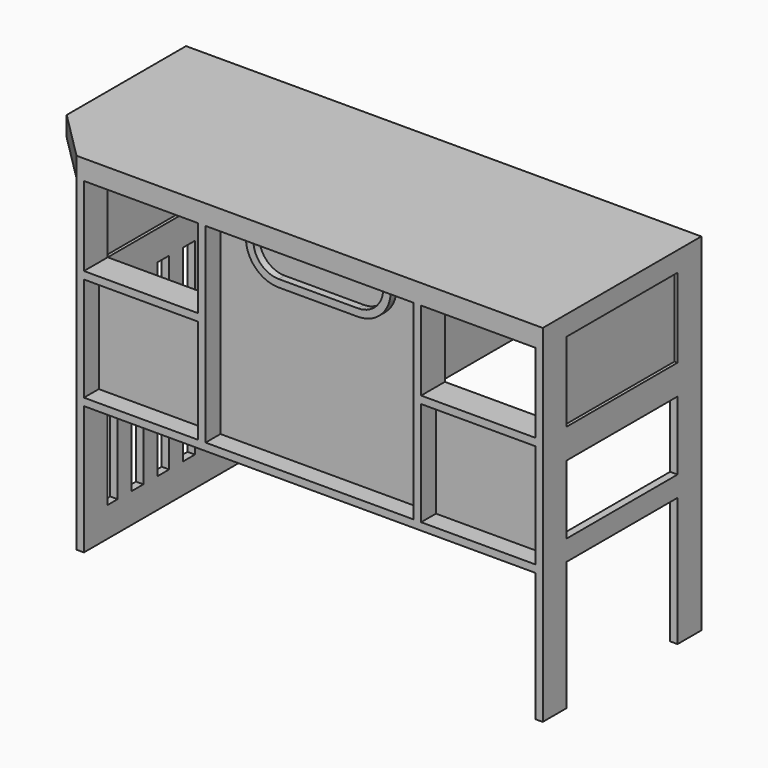
from build123d import *

# Parameters (mm, degrees)
F1_DEPTH  = 50.8
F2_W      = 19.05
F2_H      = 76.2
F3_DEPTH  = 838.2
F4_W      = 355.6
F4_H      = 76.2
F5_DEPTH  = 19.05
F6_W      = 44.45
F6_H      = 482.6
F7_DEPTH  = 19.05
F9_W      = 76.2
F9_H      = 19.05
F10_DEPTH = 1156.976414305
F8_W      = 292.7382071525
F8_H      = 19.05
F11_DEPTH = 76.2
F12_W     = 19.05
F12_H     = 203.2
F13_DEPTH = 76.2
F14_W     = 3.175
F14_H     = 203.2
F15_DEPTH = 431.8
F16_W     = 355.6
F16_H     = 76.2
F16_H_2   = 52.435785675
F17_DEPTH = 19.05
F20_W     = 19.05
F20_H     = 19.05
F22_W     = 533.4
F22_H     = 19.05
F22_W_2   = 292.7382071525
F23_DEPTH = 76.2
F25_DEPTH = 3.175


with BuildPart() as f1:
    # F0 (on Top) → F1 (new body)
    with BuildSketch(Plane.XY):
        Polygon((617.4126458168, 48.7991196131), (-703.3873541832, 48.7991196131), (-703.3873541832, -333.4772946919), (-577.6637684882, -459.2008803869), (617.4126458168, -459.2008803869), align=None)
    extrude(amount=F1_DEPTH)

    # F2 (on face) → F3 (join)
    with BuildSketch(Plane(origin=(0, 0, 0), x_dir=(1, 0, 0), z_dir=(0, 0, -1))):
        with Locations((607.8876458168, 421.1008803869)):
            Rectangle(F2_W, F2_H)
        with Locations((607.8876458168, -10.6991196131)):
            Rectangle(F2_W, F2_H)
        with Locations((-568.1387684882, 421.1008803869)):
            Rectangle(F2_W, F2_H)
        with Locations((-568.1387684882, -10.6991196131)):
            Rectangle(F2_W, F2_H)
    extrude(amount=F3_DEPTH)

    # F4 (on face) → F5 (join)
    with BuildSketch(Plane(origin=(-577.6637684882, 0, 0), x_dir=(0, -1, 0), z_dir=(-1, 0, 0))):
        with Locations((205.2008803869, -241.3)):
            Rectangle(F4_W, F4_H)
        with Locations((205.2008803869, -800.1)):
            Rectangle(F4_W, F4_H)
    extrude(amount=-F5_DEPTH)

    # F6 (on face) → F7 (join, through all)
    with BuildSketch(Plane(origin=(-577.6637684882, 0, 0), x_dir=(0, -1, 0), z_dir=(-1, 0, 0))):
        with Locations((81.3758803869, -520.7)):
            Rectangle(F6_W, F6_H)
        with Locations((163.9258803869, -520.7)):
            Rectangle(F6_W, F6_H)
        with Locations((246.4758803869, -520.7)):
            Rectangle(F6_W, F6_H)
        with Locations((329.0258803869, -520.7)):
            Rectangle(F6_W, F6_H)
    extrude(amount=-F7_DEPTH)

    # F9 (on face) → F10 (join, through all)
    with BuildSketch(Plane.YZ.offset(-558.6137684882)):
        with Locations((10.6991196131, -212.725)):
            Rectangle(F9_W, F9_H)
    extrude(amount=F10_DEPTH)

    # F8 (on face) → F11 (join)
    with BuildSketch(Plane.XZ.offset(459.2008803869)):
        Polygon((-246.8255613357, 0), (-265.8755613357, 0), (-265.8755613357, -203.2), (-265.8755613357, -222.25), (-246.8255613357, -222.25), align=None)
        with Locations((-412.244664912, -212.725)):
            Rectangle(F8_W, F8_H)
        Polygon((305.6244386643, 0), (286.5744386643, 0), (286.5744386643, -222.25), (305.6244386643, -222.25), (305.6244386643, -203.2), align=None)
        with Locations((451.9935422405, -212.725)):
            Rectangle(F8_W, F8_H)
    extrude(amount=-F11_DEPTH)

    # F12 (on face) → F13 (join)
    with BuildSketch(Plane(origin=(0, 48.7991196131, 0), x_dir=(-1, 0, 0), z_dir=(0, 1, 0))):
        with Locations((-296.0994386643, -101.6)):
            Rectangle(F12_W, F12_H)
        with Locations((256.3505613357, -101.6)):
            Rectangle(F12_W, F12_H)
    extrude(amount=-F13_DEPTH)

    # F14 (on face) → F15 (join, through all)
    with BuildSketch(Plane.XZ.offset(459.2008803869)):
        with Locations((-568.1387684882, -101.6)):
            Rectangle(F14_W, F14_H)
        with Locations((-256.3823113357, -101.6)):
            Rectangle(F14_W, F14_H)
        with Locations((296.0994386643, -101.6)):
            Rectangle(F14_W, F14_H)
        with Locations((607.8876458168, -101.6)):
            Rectangle(F14_W, F14_H)
    extrude(amount=-F15_DEPTH)

    # F16 (on face) → F17 (join)
    with BuildSketch(Plane.YZ.offset(617.4126458168)):
        with Locations((-205.2008803869, -241.3)):
            Rectangle(F16_W, F16_H)
        with Locations((-205.2008803869, -481.7821071625)):
            Rectangle(F16_W, F16_H_2)
    extrude(amount=-F17_DEPTH)

    # F21: sweep along a path in F19
    with BuildLine(Plane.XZ.offset(408.4008803869)) as f21_path:
        Line((-145.2255613357, 0), (-145.2255613357, -12.7))
        ThreePointArc((-145.2255613357, -12.7), (-126.6268419411, -57.6012806053), (-81.7255613357, -76.2))
        Line((-81.7255613357, -76.2), (121.4744386643, -76.2))
        ThreePointArc((121.4744386643, -76.2), (166.3757192696, -57.6012806053), (184.9744386643, -12.7))
        Line((184.9744386643, -12.7), (184.9744386643, 0))
    # F20 (on face) → F21 (sweep)
    with BuildSketch(Plane(origin=(0, 0, 0), x_dir=(1, 0, 0), z_dir=(0, 0, -1))):
        with Locations((-156.0781598091, 421.7912954004)):
            Rectangle(F20_W, F20_H)
    sweep(path=f21_path.line)

    # F22 (on face) → F23 (join)
    with BuildSketch(Plane.XZ.offset(459.2008803869)):
        Polygon((-246.8255613357, -488.95), (-246.8255613357, -222.25), (-265.8755613357, -222.25), (-265.8755613357, -488.95), (-265.8755613357, -508), (-246.8255613357, -508), align=None)
        with Locations((19.8744386643, -498.475)):
            Rectangle(F22_W, F22_H)
        with Locations((-412.244664912, -498.475)):
            Rectangle(F22_W_2, F22_H)
        Polygon((286.5744386643, -222.25), (286.5744386643, -488.95), (286.5744386643, -508), (305.6244386643, -508), (305.6244386643, -488.95), (305.6244386643, -222.25), align=None)
        with Locations((451.9935422405, -498.475)):
            Rectangle(F22_W_2, F22_H)
    extrude(amount=-F23_DEPTH)

    # F24 (on offset) → F25 (join)
    with BuildSketch(Plane.XZ.offset(408.4008803869)):
        Polygon((-558.6137684882, -222.25), (-558.6137684882, -488.95), (598.3626458168, -488.95), (598.3626458168, -222.25), (286.5744386643, -222.25), (286.5744386643, 0), (-246.8255613357, 0), (-246.8255613357, -222.25), align=None)
    extrude(amount=F25_DEPTH)


solid = f1.part
